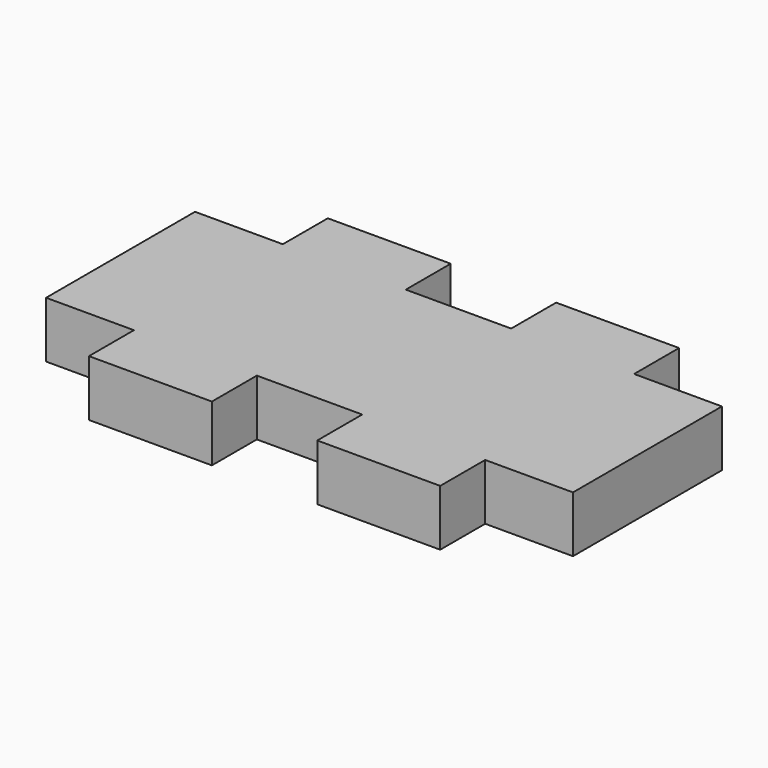
from build123d import *

# Parameters (mm, degrees)
F1_DEPTH = 1.6


with BuildPart() as f1:
    # F0 (on Top) → F1 (new body, symmetric)
    with BuildSketch(Plane.XY):
        Polygon((-3, 0), (-10, 0), (-10, -3.2), (-15, -3.2), (-15, -13.8), (-10, -13.8), (-10, -17), (-3, -17), (-3, -13.8), (3, -13.8), (3, -17), (10, -17), (10, -13.8), (15, -13.8), (15, -3.2), (10, -3.2), (10, 0), (3, 0), (3, -3.2), (-3, -3.2), align=None)
    extrude(amount=F1_DEPTH, both=True)


solid = f1.part
